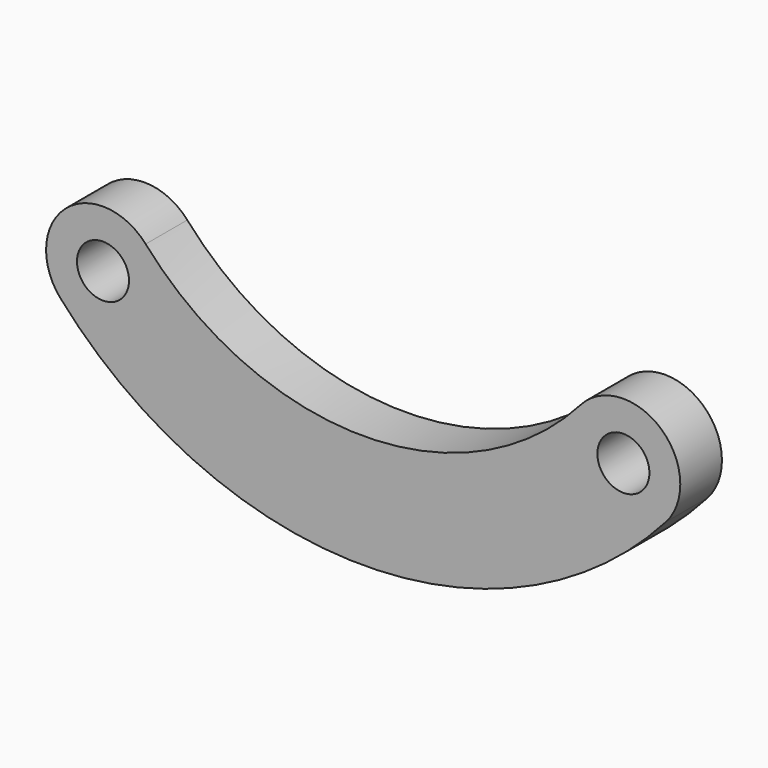
from build123d import *

# Parameters (mm, degrees)
F0_R     = 9.525
F1_DEPTH = 19.05


with BuildPart() as f1:
    # F0 (on Front) → F1 (new body)
    with BuildSketch(Plane.XZ):
        with BuildLine():
            ThreePointArc((-79.629, 56.773823), (-109.026427, 58.618396), (-110.871, 29.220969))
            ThreePointArc((-110.871, 29.220969), (0, -20.828), (110.871, 29.220969))
            ThreePointArc((110.871, 29.220969), (109.026427, 58.618396), (79.629, 56.773823))
            ThreePointArc((79.629, 56.773823), (0, 20.828), (-79.629, 56.773823))
        make_face()
        with Locations((-95.25, 42.997396)):
            Circle(F0_R, mode=Mode.SUBTRACT)
        with Locations((95.25, 42.997396)):
            Circle(F0_R, mode=Mode.SUBTRACT)
    extrude(amount=F1_DEPTH)


solid = f1.part
